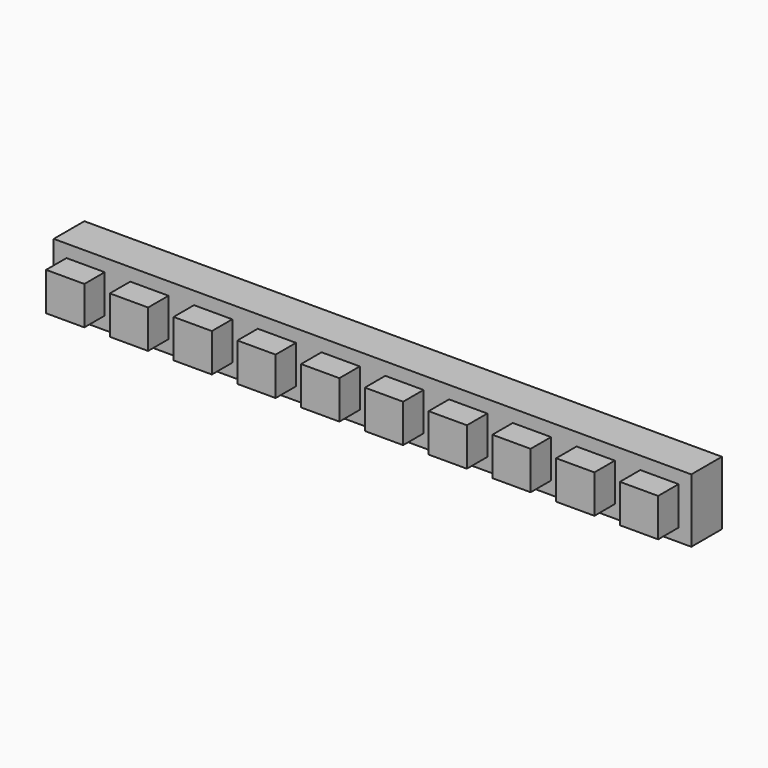
from build123d import *

# Parameters (mm, degrees)
F0_W     = 50
F0_H     = 5
F1_DEPTH = 3
F2_W     = 3
F2_H     = 3
F3_DEPTH = 2


with BuildPart() as f1:
    # F0 (on Front) → F1 (new body)
    with BuildSketch(Plane.XZ):
        Rectangle(F0_W, F0_H)
    extrude(amount=F1_DEPTH)

    # F2 (on face) → F3 (join)
    with BuildSketch(Plane.XZ.offset(3)):
        with Locations((-22.5, 0)):
            Rectangle(F2_W, F2_H)
        with Locations((-17.5, 0)):
            Rectangle(F2_W, F2_H)
        with Locations((-12.5, 0)):
            Rectangle(F2_W, F2_H)
        with Locations((-7.5, 0)):
            Rectangle(F2_W, F2_H)
        with Locations((-2.5, 0)):
            Rectangle(F2_W, F2_H)
        with Locations((2.5, 0)):
            Rectangle(F2_W, F2_H)
        with Locations((7.5, 0)):
            Rectangle(F2_W, F2_H)
        with Locations((12.5, 0)):
            Rectangle(F2_W, F2_H)
        with Locations((17.5, 0)):
            Rectangle(F2_W, F2_H)
        with Locations((22.5, 0)):
            Rectangle(F2_W, F2_H)
    extrude(amount=F3_DEPTH)


solid = f1.part
